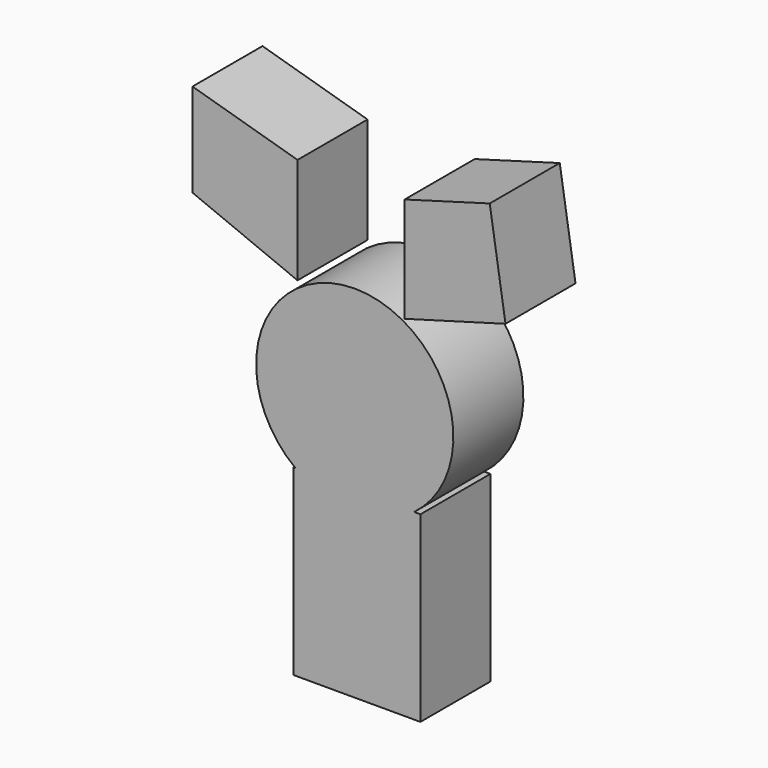
from build123d import *

# Parameters (mm, degrees)
F0_R     = 28.620787
F1_DEPTH = 25.4
F3_DEPTH = 25.4
F5_DEPTH = 25.4
F6_W     = 36.8808
F6_H     = 53.035203
F7_DEPTH = 25.4


with BuildPart() as f1:
    # F0 (on Front) → F1 (new body)
    with BuildSketch(Plane.XZ):
        Circle(F0_R)
    extrude(amount=F1_DEPTH)

    # F6 (on Front) → F7 (join)
    with BuildSketch(Plane.XZ):
        with Locations((0.6096, -49.377603)):
            Rectangle(F6_W, F6_H)
    extrude(amount=F7_DEPTH)


with BuildPart() as f3:
    # F2 (on Front) → F3 (new body)
    with BuildSketch(Plane.XZ):
        Polygon((-47.0916, 37.795201), (-16.6116, 25.2984), (-16.6116, 56.083202), (-47.0916, 64.9224), align=None)
    extrude(amount=F3_DEPTH)


with BuildPart() as f5:
    # F4 (on Front) → F5 (new body)
    with BuildSketch(Plane.XZ):
        Polygon((14.477999, 56.083202), (14.477999, 25.603199), (43.738801, 33.8328), (39.166801, 63.093603), align=None)
    extrude(amount=F5_DEPTH)


solid = Compound([f1.part, f3.part, f5.part])
